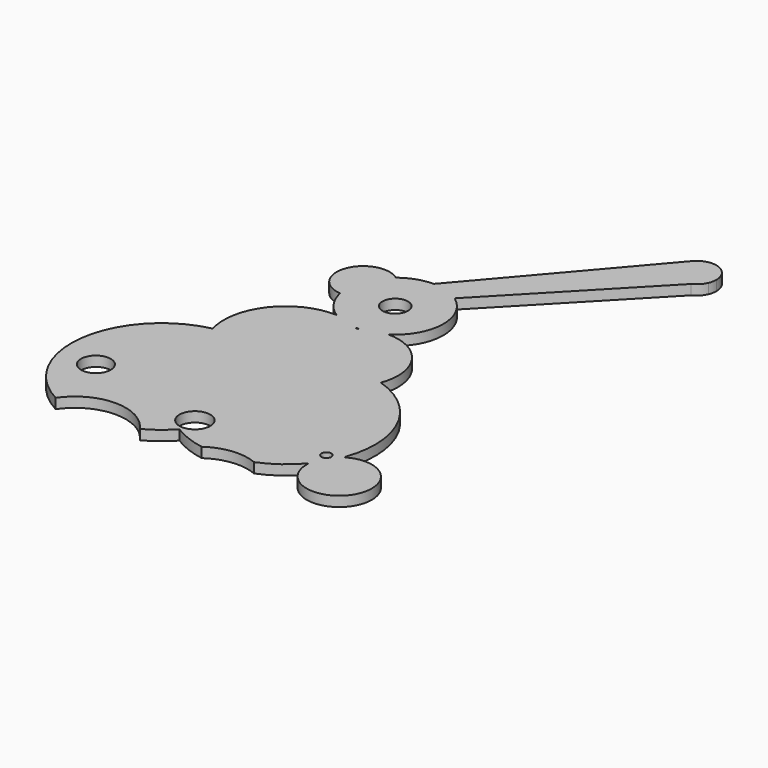
from build123d import *

# Parameters (mm, degrees)
F0_R     = 2.975
F0_R_2   = 3.08
F0_R_3   = 2.5488998398
F0_R_4   = 0.975
F1_DEPTH = 2


with BuildPart() as f1:
    # F0 (on Top) → F1 (new body)
    with BuildSketch(Plane.XY):
        with BuildLine():
            ThreePointArc((0, 9.62), (-3.1247782734, 9.0983603326), (-5.9106774825, 7.5900126283))
            ThreePointArc((-5.9106774825, 7.5900126283), (-14.0103239296, 5.1300315191), (-9.4143271476, -1.9785965627))
            ThreePointArc((-9.4143271476, -1.9785965627), (-7.953980121, -5.4109703598), (-5.2977734311, -8.0298192179))
            ThreePointArc((-5.2977734311, -8.0298192179), (-15.3563366308, -12.7628161866), (-17.4774895724, -23.6750416309))
            ThreePointArc((-17.4774895724, -23.6750416309), (-31.4530213473, -38.8671148112), (-21.9932592031, -57.2145254208))
            ThreePointArc((-21.9932592031, -57.2145254208), (-13.594167307, -52.7516925836), (-5.195075411, -57.2145254208))
            ThreePointArc((-5.195075411, -57.2145254208), (-2.5891651165, -55.5408471707), (-0.3083333254, -53.4456684937))
            ThreePointArc((-0.3083333254, -53.4456684937), (2.7735062316, -54.9766225221), (6.0933847221, -55.8821401092))
            ThreePointArc((6.0933847221, -55.8821401092), (10.7597310208, -54.1222270386), (15.6940726347, -54.8463503928))
            ThreePointArc((15.6940726347, -54.8463503928), (19.4715491799, -52.7522914168), (22.6291932688, -49.805480284))
            ThreePointArc((22.6291932688, -49.805480284), (34.6177347984, -53.7648874976), (25.7666616794, -44.7615248962))
            ThreePointArc((25.7666616794, -44.7615248962), (25.9560681279, -45.3491064075), (26.0201230582, -45.9631290464))
            ThreePointArc((26.0201230582, -45.9631290464), (20.1591024589, -46.6852856084), (25.669528033, -44.5620139446))
            ThreePointArc((25.669528033, -44.5620139446), (24.9509457494, -30.6391835246), (14.3730107044, -21.5579469578))
            ThreePointArc((14.3730107044, -21.5579469578), (13.2737418091, -12.4282504621), (5.1453783053, -8.1283136071))
            ThreePointArc((5.1453783053, -8.1283136071), (9.6166170048, -0.2551026914), (5.5690826768, 7.8440881012))
            Line((5.5690826768, 7.8440881012), (31.3294620107, 34.6465813872))
            ThreePointArc((31.3294620107, 34.6465813872), (26.493437969, 35.7516588595), (26.56136386, 40.7118716398))
            Line((26.56136386, 40.7118716398), (0, 9.62))
        make_face()
        with Locations((-24.1481717676, -44.4739237428)):
            Circle(F0_R, mode=Mode.SUBTRACT)
        with Locations((-0.3083333254, -49.5728440583)):
            Circle(F0_R_2, mode=Mode.SUBTRACT)
        with BuildLine():
            ThreePointArc((0.378867587, -9.6125365722), (0.1259148835, -9.6191759232), (-0.1271249373, -9.6191600075))
            ThreePointArc((-0.1271249373, -9.6191600075), (-0.0039743658, -9.5439535434), (0.1202576566, -9.4705472758))
            ThreePointArc((0.1202576566, -9.4705472758), (0.2499888731, -9.540765578), (0.378867587, -9.6125365722))
        make_face(mode=Mode.SUBTRACT)
        Circle(F0_R_3, mode=Mode.SUBTRACT)
        with BuildLine():
            Line((26.629857377, 40.7920479308), (26.56136386, 40.7118716398))
            ThreePointArc((26.56136386, 40.7118716398), (26.493437969, 35.7516588595), (31.3294620107, 34.6465813872))
            Line((31.3294620107, 34.6465813872), (33.2039874102, 36.5969390967))
            ThreePointArc((33.2039874102, 36.5969390967), (33.4549634098, 37.3758377988), (33.5398394732, 38.1897592902))
            ThreePointArc((33.5398394732, 38.1897592902), (30.985193858, 41.8816341099), (26.629857377, 40.7920479308))
        make_face()
        with BuildLine():
            ThreePointArc((26.629857377, 40.7920479308), (26.5953427184, 40.7521886487), (26.56136386, 40.7118716398))
            Line((26.56136386, 40.7118716398), (26.629857377, 40.7920479308))
        make_face()
        with BuildLine():
            Line((33.2039874102, 36.5969390967), (31.3294620107, 34.6465813872))
            ThreePointArc((31.3294620107, 34.6465813872), (32.439122251, 35.4560657302), (33.2039874102, 36.5969390967))
        make_face()
        with BuildLine():
            ThreePointArc((25.7666616794, -44.7615248962), (25.7199556488, -44.6608634773), (25.669528033, -44.5620139446))
            ThreePointArc((25.669528033, -44.5620139446), (25.6053179605, -44.7333747057), (25.5393391899, -44.9040622732))
            ThreePointArc((25.5393391899, -44.9040622732), (25.6522643134, -44.8316195986), (25.7666616794, -44.7615248962))
        make_face()
        with BuildLine():
            ThreePointArc((25.5393391899, -44.9040622732), (25.6053179605, -44.7333747057), (25.669528033, -44.5620139446))
            ThreePointArc((25.669528033, -44.5620139446), (20.1591024589, -46.6852856084), (26.0201230582, -45.9631290464))
            ThreePointArc((26.0201230582, -45.9631290464), (25.9560681279, -45.3491064075), (25.7666616794, -44.7615248962))
            ThreePointArc((25.7666616794, -44.7615248962), (25.6522643134, -44.8316195986), (25.5393391899, -44.9040622732))
        make_face()
        with Locations((23.0451230582, -45.9631290464)):
            Circle(F0_R_4, mode=Mode.SUBTRACT)
    extrude(amount=F1_DEPTH)


solid = f1.part
